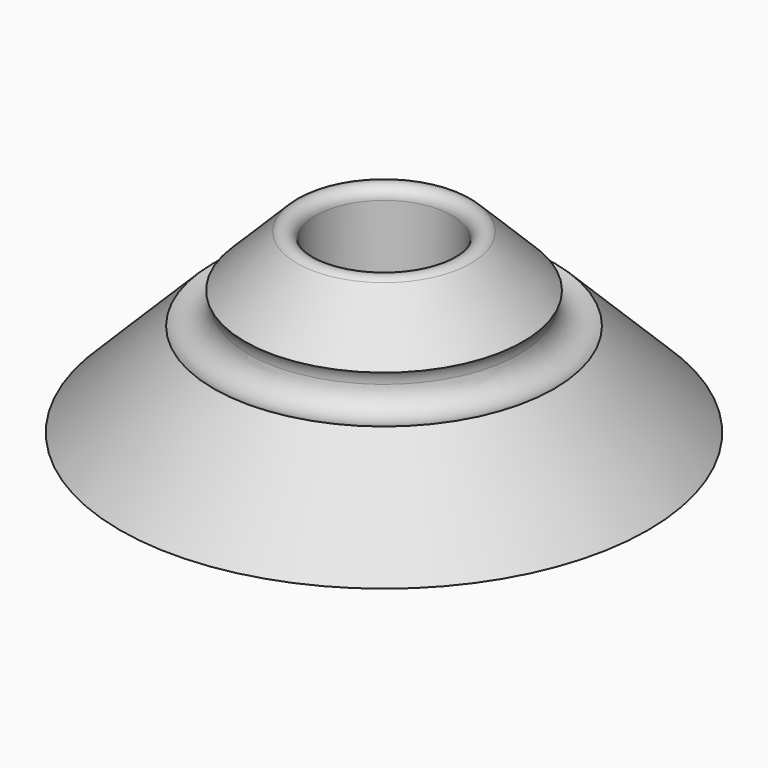
from build123d import *

# Parameters (mm, degrees)
F1_R = 10


with BuildPart() as f2:
    # F0 (on Front) → F2 (revolve)
    with BuildSketch(Plane.XZ):
        with BuildLine():
            Line((-117.071068, 0), (-30, 0))
            Line((-30, 0), (-30, 75))
            ThreePointArc((-30, 75), (-33.086583, 79.619398), (-38.535534, 78.535534))
            Line((-38.535534, 78.535534), (-117.071068, 0))
        make_face()
    revolve(axis=Axis((0, 0, 50.122261), (0, 0, 1)))

    # F1 (on Front) → F3 (revolve, cut)
    with BuildSketch(Plane.XZ):
        with Locations((-70, 50)):
            Circle(F1_R)
    revolve(axis=Axis((0, 0, 49.993556), (0, 0, 1)), mode=Mode.SUBTRACT)


solid = f2.part
